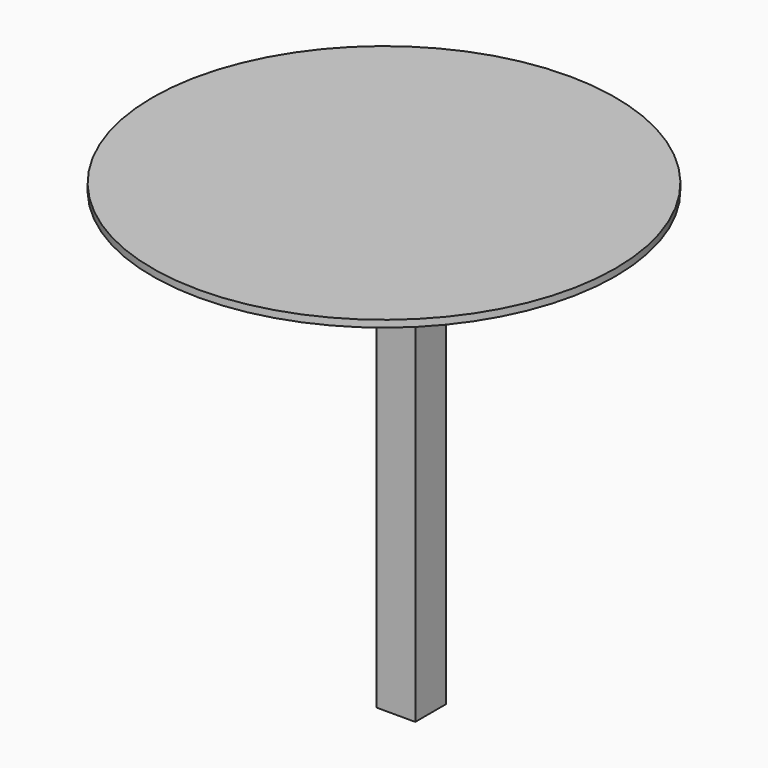
from build123d import *

# Parameters (mm, degrees)
F0_R     = 600
F1_DEPTH = 18
F3_W     = 100
F3_H     = 1200
F4_DEPTH = 50


with BuildPart() as f1:
    # F0 (on Top) → F1 (new body)
    with BuildSketch(Plane.XY):
        Circle(F0_R)
    extrude(amount=F1_DEPTH)


with BuildPart() as f4:
    # F3 (on offset) → F4 (new body, symmetric)
    with BuildSketch(Plane.YZ):
        with Locations((88.81951, -611.482365)):
            Rectangle(F3_W, F3_H)
    extrude(amount=F4_DEPTH, both=True)


solid = Compound([f1.part, f4.part])
